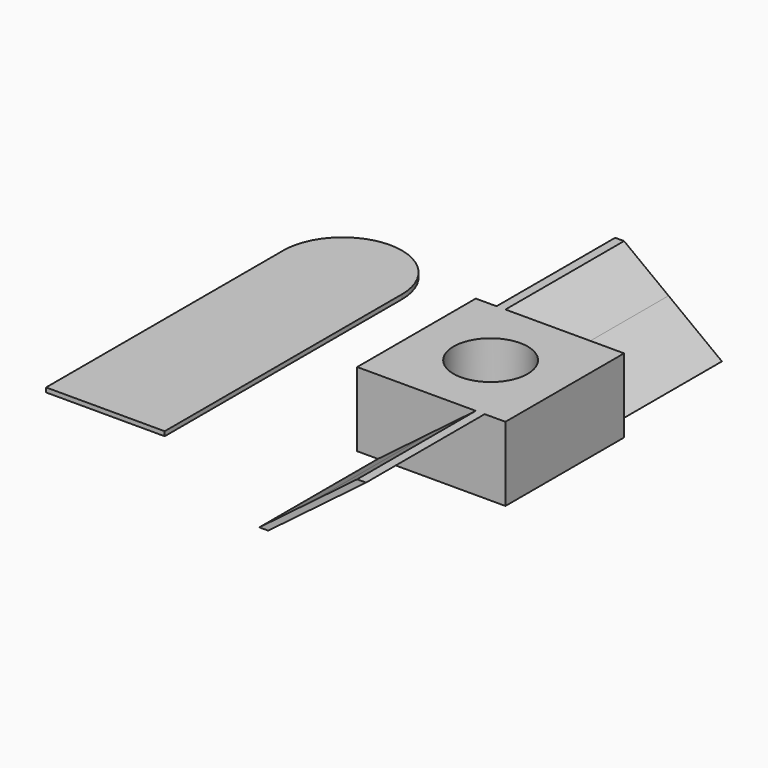
from build123d import *

# Parameters (mm, degrees)
F0_W     = 25.4
F0_H     = 25.4
F0_R     = 6.35
F1_DEPTH = 12.7
F3_DEPTH = 25.4
F5_DEPTH = 25.4
F7_DEPTH = 0.762


with BuildPart() as f1:
    # F0 (on Top) → F1 (new body)
    with BuildSketch(Plane.XY):
        Rectangle(F0_W, F0_H)
        Circle(F0_R, mode=Mode.SUBTRACT)
    extrude(amount=F1_DEPTH)

    # F2 (on face) → F3 (join)
    with BuildSketch(Plane(origin=(0, 12.7, 0), x_dir=(-1, 0, 0), z_dir=(0, 1, 0))):
        Polygon((7.62, 12.7), (0, 6.9272727273), (0, 5.7727272727), (9.144, 12.7), align=None)
        Polygon((0, 5.7727272727), (0, 6.9272727273), (-9.144, 0), (-7.62, 0), align=None)
    extrude(amount=F3_DEPTH)

    # F4 (on face) → F5 (join)
    with BuildSketch(Plane.XZ.offset(12.7)):
        Polygon((7.62, 12.7), (0, 6.9272727273), (0, 5.7727272727), (9.144, 12.7), align=None)
        Polygon((0, 5.7727272727), (0, 6.9272727273), (-9.144, 0), (-7.62, 0), align=None)
    extrude(amount=F5_DEPTH)


with BuildPart() as f7:
    # F6 (on Top) → F7 (new body)
    with BuildSketch(Plane.XY):
        with BuildLine():
            Line((-55.8321857466, 25.4), (-55.8321857466, -25.4))
            Line((-55.8321857466, -25.4), (-35.5121857466, -25.4))
            Line((-35.5121857466, -25.4), (-35.5121857466, 25.4))
            ThreePointArc((-35.5121857466, 25.4), (-45.6721857466, 35.56), (-55.8321857466, 25.4))
        make_face()
    extrude(amount=F7_DEPTH)


solid = Compound([f1.part, f7.part])
